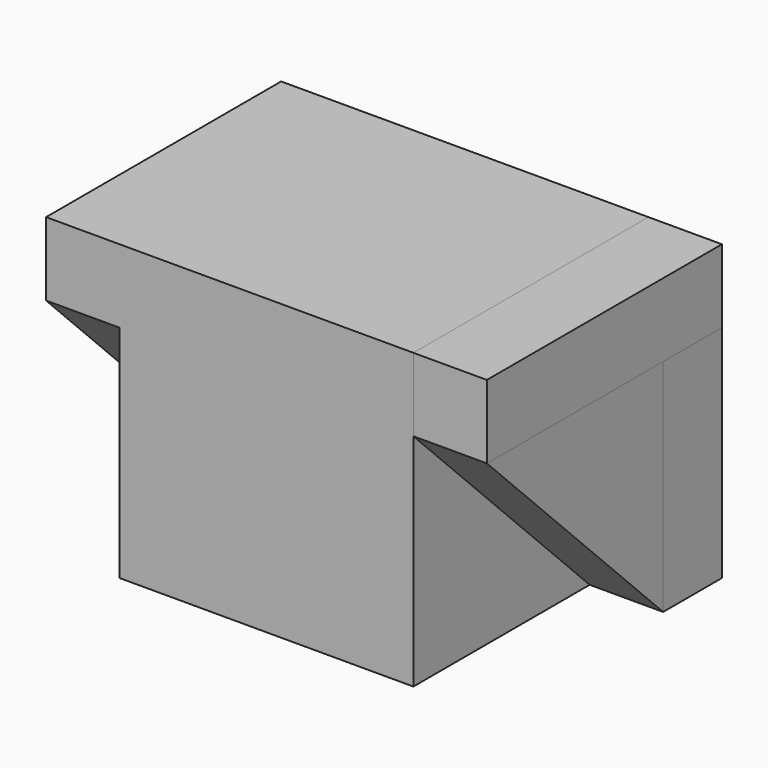
from build123d import *

# Parameters (mm, degrees)
F0_W      = 101.6
F0_H      = 101.6
F1_DEPTH  = 101.6
F2_W      = 25.4
F2_H      = 101.6
F3_DEPTH  = 25.4
F4_W      = 25.4
F4_H      = 76.2
F5_DEPTH  = 25.4
F7_DEPTH  = 25.4
F8_W      = 25.4
F8_H      = 101.6
F9_DEPTH  = 25.4
F10_W     = 76.2
F10_H     = 25.4
F11_DEPTH = 25.4
F13_DEPTH = 25.4


with BuildPart() as f1:
    # F0 (on Top) → F1 (new body)
    with BuildSketch(Plane.XY):
        with Locations((-50.8, 50.8)):
            Rectangle(F0_W, F0_H)
    extrude(amount=F1_DEPTH)

    # F6 (on face) → F7 (join)
    with BuildSketch(Plane.YZ):
        Polygon((0, 76.2), (76.2, 0), (76.2, 76.2), align=None)
    extrude(amount=F7_DEPTH)

    # F8 (on face) → F9 (join)
    with BuildSketch(Plane(origin=(-101.6, 0, 0), x_dir=(0, -1, 0), z_dir=(-1, 0, 0))):
        with Locations((-88.9, 50.8)):
            Rectangle(F8_W, F8_H)
    extrude(amount=F9_DEPTH)

    # F10 (on face) → F11 (join)
    with BuildSketch(Plane(origin=(-101.6, 0, 0), x_dir=(0, -1, 0), z_dir=(-1, 0, 0))):
        with Locations((-38.1, 88.9)):
            Rectangle(F10_W, F10_H)
    extrude(amount=F11_DEPTH)

    # F12 (on face) → F13 (join)
    with BuildSketch(Plane(origin=(-101.6, 0, 0), x_dir=(0, -1, 0), z_dir=(-1, 0, 0))):
        Polygon((0, 76.2), (-76.2, 76.2), (-76.2, 0), align=None)
    extrude(amount=F13_DEPTH)


with BuildPart() as f3:
    # F2 (on face) → F3 (new body)
    with BuildSketch(Plane.XY.offset(101.6)):
        with Locations((12.7, 50.8)):
            Rectangle(F2_W, F2_H)
    extrude(amount=-F3_DEPTH)


with BuildPart() as f5:
    # F4 (on face) → F5 (new body)
    with BuildSketch(Plane.YZ):
        with Locations((88.9, 38.1)):
            Rectangle(F4_W, F4_H)
    extrude(amount=F5_DEPTH)


solid = Compound([f1.part, f3.part, f5.part])
